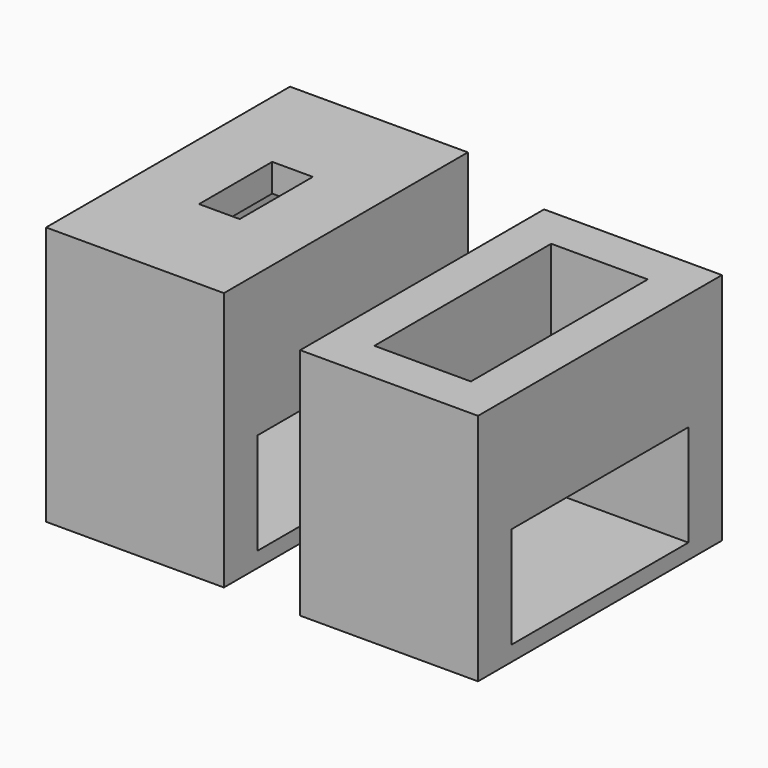
from build123d import *

# Parameters (mm, degrees)
BOX002_W     = 5.8
BOX002_H     = 8.7
BOX002_DEPTH = 4
BOX003_W     = 1.6
BOX003_H     = 3.6
BOX003_DEPTH = 8.5
BOX_W        = 3.8
BOX_H        = 8.7
BOX_DEPTH    = 9.5
BOX001_W     = 7
BOX001_H     = 12
BOX001_DEPTH = 9.2
BOX006_W     = 5.8
BOX006_H     = 8.7
BOX006_DEPTH = 4
BOX007_W     = 1.6
BOX007_H     = 3.6
BOX007_DEPTH = 10
BOX004_W     = 3.8
BOX004_H     = 8.7
BOX004_DEPTH = 8.5
BOX005_W     = 7
BOX005_H     = 12
BOX005_DEPTH = 10.2


with BuildPart() as cube002:
    # Box002 → Box002 (new body)
    with BuildSketch(Plane.XY):
        with Locations((2.9, 4.35)):
            Rectangle(BOX002_W, BOX002_H)
    extrude(amount=BOX002_DEPTH)


with BuildPart() as cube003:
    # Box003 → Box003 (new body)
    with BuildSketch(Plane(origin=(1.1, 2.5, 1), x_dir=(1, 0, 0), z_dir=(0, 0, 1))):
        with Locations((0.8, 1.8)):
            Rectangle(BOX003_W, BOX003_H)
    extrude(amount=BOX003_DEPTH)


with BuildPart() as fusion:
    # Box → Box (new body)
    with BuildSketch(Plane.XY):
        with Locations((1.9, 4.35)):
            Rectangle(BOX_W, BOX_H)
    extrude(amount=BOX_DEPTH)

    # Fusion: union Cube002, Cube003
    add(cube002.part)
    add(cube003.part)


with BuildPart() as cut:
    # Box001 → Box001 (new body)
    with BuildSketch(Plane(origin=(-1.6, -1.65, -0.6), x_dir=(1, 0, 0), z_dir=(0, 0, 1))):
        with Locations((3.5, 6)):
            Rectangle(BOX001_W, BOX001_H)
    extrude(amount=BOX001_DEPTH)

    # Cut: cut Fusion
    add(fusion.part, mode=Mode.SUBTRACT)


with BuildPart() as cube006:
    # Box006 → Box006 (new body)
    with BuildSketch(Plane.XY):
        with Locations((2.9, 4.35)):
            Rectangle(BOX006_W, BOX006_H)
    extrude(amount=BOX006_DEPTH)


with BuildPart() as cube007:
    # Box007 → Box007 (new body)
    with BuildSketch(Plane(origin=(1.1, 2.5, 1), x_dir=(1, 0, 0), z_dir=(0, 0, 1))):
        with Locations((0.8, 1.8)):
            Rectangle(BOX007_W, BOX007_H)
    extrude(amount=BOX007_DEPTH)


with BuildPart() as fusion001:
    # Box004 → Box004 (new body)
    with BuildSketch(Plane.XY):
        with Locations((1.9, 4.35)):
            Rectangle(BOX004_W, BOX004_H)
    extrude(amount=BOX004_DEPTH)

    # Fusion001: union Cube006, Cube007
    add(cube006.part)
    add(cube007.part)


with BuildPart() as cut001:
    # Box005 → Box005 (new body)
    with BuildSketch(Plane(origin=(-1.6, -1.65, -0.6), x_dir=(1, 0, 0), z_dir=(0, 0, 1))):
        with Locations((3.5, 6)):
            Rectangle(BOX005_W, BOX005_H)
    extrude(amount=BOX005_DEPTH)

    # Cut001: cut Fusion001
    add(fusion001.part, mode=Mode.SUBTRACT)


with BuildPart() as cut001_1:
    # Cut001 placement: moved
    add(cut001.part.moved(Location((-10, 0, 0))))


solid = Compound([cut.part, cut001_1.part])
